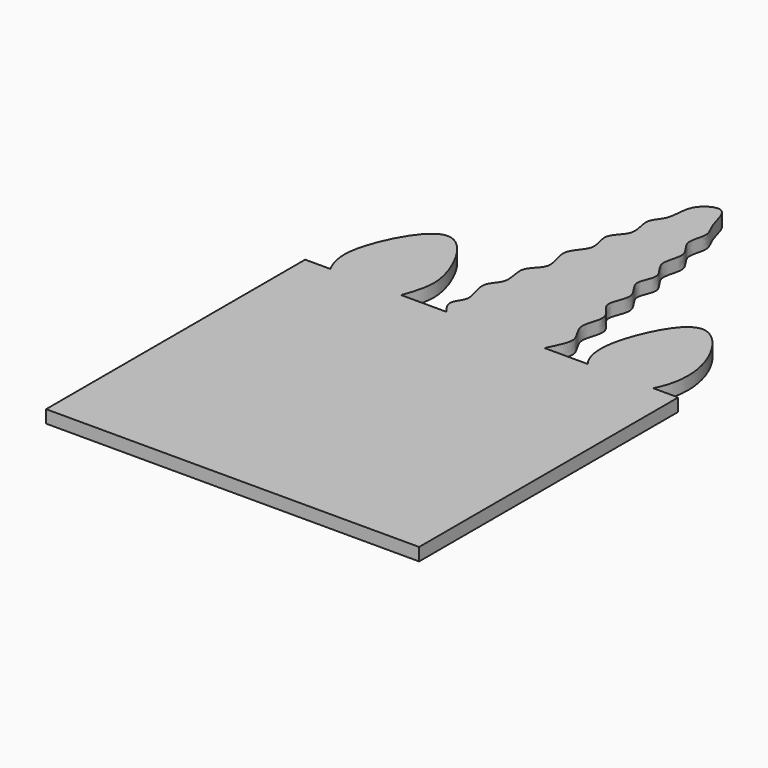
from build123d import *

# Parameters (mm, degrees)
F1_DEPTH = 2


with BuildPart() as f1:
    # F0 (on Top) → F1 (new body)
    with BuildSketch(Plane.XY):
        with BuildLine():
            add(Edge.make_bspline(
                [(-25.4092533141, 7.7950228006), (-26.6047119357, 10.1710068731), (-27.0007063545, 14.735588901), (-19.6348717385, 28.4262163655), (-12.1468076885, 14.5643612979), (-13.2812330782, 10.6678524083), (-14.2867229879, 7.7950228006)],
                knots=[0, 0, 0, 0, 0.2295513596, 0.5003957959, 0.7686193178, 1, 1, 1, 1], degree=3))
            Line((-25.4092533141, 7.7950228006), (-29.332742095, 7.7950228006))
            Line((-29.332742095, 7.7950228006), (-29.332742095, -42.9715290666))
            Line((-29.332742095, -42.9715290666), (29.1459094733, -42.9715290666))
            Line((29.1459094733, -42.9715290666), (29.1459094733, 7.7950228006))
            Line((29.1459094733, 7.7950228006), (25.2224206924, 7.7950228006))
            add(Edge.make_bspline(
                [(14.9582438171, 7.7950228006), (12.9945538938, 10.389899835), (14.0621032809, 17.324539192), (19.877450757, 26.767730288), (26.881716807, 17.6892202246), (26.8490611191, 10.8762790031), (25.2224206924, 7.7950228006)],
                knots=[0, 0, 0, 0, 0.25960505, 0.4981448579, 0.7347459325, 1, 1, 1, 1], degree=3))
            Line((14.9582438171, 7.7950228006), (8.2021616399, 7.7950228006))
            add(Edge.make_bspline(
                [(-7.1753244847, 7.7950228006), (-8.0981941623, 8.8296773179), (-8.7833111704, 10.3358017434), (-6.5883551729, 12.1863891626), (-9.0260431078, 16.4716750331), (-5.8327953465, 18.4719174879), (-7.8466455293, 22.7840380393), (-3.9835028996, 24.7679978355), (-6.8220139739, 29.4570183891), (-2.9584771804, 32.0107427194), (-5.3260365608, 35.8878245914), (-1.674835166, 38.0954995935), (-3.6974870099, 42.1083864112), (-1.0269161212, 44.0335297939), (-1.8123320337, 48.5823497987), (2.9470226132, 51.1510499886), (3.659020463, 45.8196277591), (5.4237245138, 43.7509222044), (3.67345527, 40.2937716588), (6.8597824926, 37.9226418364), (4.4819654838, 33.9923044612), (7.9938622033, 31.440073234), (5.1925138199, 28.1234225921), (8.9106292565, 25.3431159151), (5.8641436574, 21.3942471338), (9.8487063982, 19.1012290072), (7.1510091906, 14.9329262893), (10.5011203534, 11.932330123), (8.9784920378, 9.4985227047), (8.2021616399, 7.7950228006)],
                knots=[0, 0, 0, 0, 0.0334553673, 0.0630865203, 0.1033555388, 0.1374586646, 0.1763861234, 0.2121117068, 0.2532340847, 0.2910756068, 0.3282082475, 0.3643794759, 0.4022360395, 0.4351963527, 0.4764827723, 0.5135955364, 0.5545482568, 0.587756, 0.6232116417, 0.6587662495, 0.6970699816, 0.7333485247, 0.7688639187, 0.8062809305, 0.8447968183, 0.8809680384, 0.9204608193, 0.9577860398, 1, 1, 1, 1], degree=3))
            Line((-7.1753244847, 7.7950228006), (-14.2867229879, 7.7950228006))
        make_face()
    extrude(amount=F1_DEPTH)


solid = f1.part
